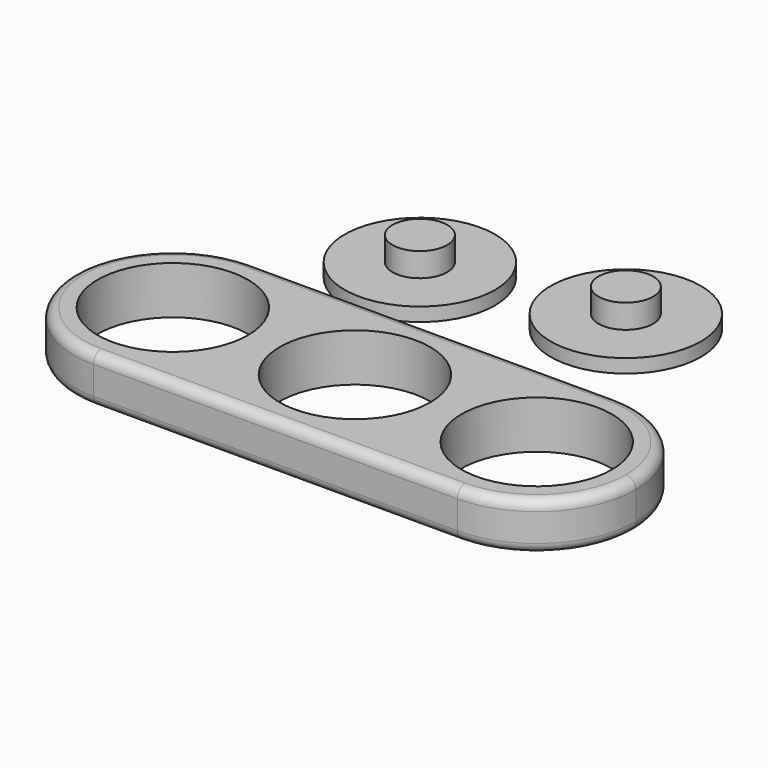
from build123d import *

# Parameters (mm, degrees)
F0_R      = 11
F1_DEPTH  = 7
F2_R      = 1.448528
F3_R      = 11
F4_DEPTH  = 2
F5_R      = 4
F6_DEPTH  = 3.5
F7_R      = 11
F8_DEPTH  = 2
F9_R      = 4
F10_DEPTH = 3.5


with BuildPart() as f1:
    # F0 (on Top) → F1 (new body)
    with BuildSketch(Plane.XY):
        with BuildLine():
            ThreePointArc((-26.653456, 14.5), (-16.400407, 10.253048), (-12.153456, 0))
            ThreePointArc((-12.153456, 0), (-16.400407, -10.253048), (-26.653456, -14.5))
            Line((-26.653456, -14.5), (26.6, -14.5))
            ThreePointArc((26.6, -14.5), (12.1, 0), (26.6, 14.5))
            Line((26.6, 14.5), (-26.653456, 14.5))
        make_face()
        Circle(F0_R, mode=Mode.SUBTRACT)
        with BuildLine():
            ThreePointArc((-26.653456, -14.5), (-16.400407, -10.253048), (-12.153456, 0))
            ThreePointArc((-12.153456, 0), (-16.400407, 10.253048), (-26.653456, 14.5))
            ThreePointArc((-26.653456, 14.5), (-41.153456, 0), (-26.653456, -14.5))
        make_face()
        with Locations((-26.653456, 0)):
            Circle(F0_R, mode=Mode.SUBTRACT)
        with BuildLine():
            ThreePointArc((41.1, 0), (36.853048, 10.253048), (26.6, 14.5))
            ThreePointArc((26.6, 14.5), (12.1, 0), (26.6, -14.5))
            ThreePointArc((26.6, -14.5), (36.853048, -10.253048), (41.1, 0))
        make_face()
        with Locations((26.6, 0)):
            Circle(F0_R, mode=Mode.SUBTRACT)
    extrude(amount=F1_DEPTH)

    # F2
    f2_edges = [f1.edges().sort_by_distance(p)[0] for p in [
        (-0.026728, 14.5, 7),
        (-41.153456, 0, 7),
        (41.1, 0, 7),
        (-41.153456, 0, 0),
        (-0.026728, -14.5, 0),
        (41.1, 0, 0),
    ]]
    fillet(f2_edges, radius=F2_R)


with BuildPart() as f4:
    # F3 (on Top) → F4 (new body)
    with BuildSketch(Plane.XY):
        with Locations((-17.615132, 33.898026)):
            Circle(F3_R)
    extrude(amount=F4_DEPTH)

    # F5 (on face) → F6 (join)
    with BuildSketch(Plane.XY.offset(2)):
        with Locations((-17.615132, 33.898026)):
            Circle(F5_R)
    extrude(amount=F6_DEPTH)


with BuildPart() as f8:
    # F7 (on Top) → F8 (new body)
    with BuildSketch(Plane.XY):
        with Locations((8.733553, 38.63487)):
            Circle(F7_R)
    extrude(amount=F8_DEPTH)

    # F9 (on face) → F10 (join)
    with BuildSketch(Plane.XY.offset(2)):
        with Locations((8.733553, 38.63487)):
            Circle(F9_R)
    extrude(amount=F10_DEPTH)


solid = Compound([f1.part, f4.part, f8.part])
